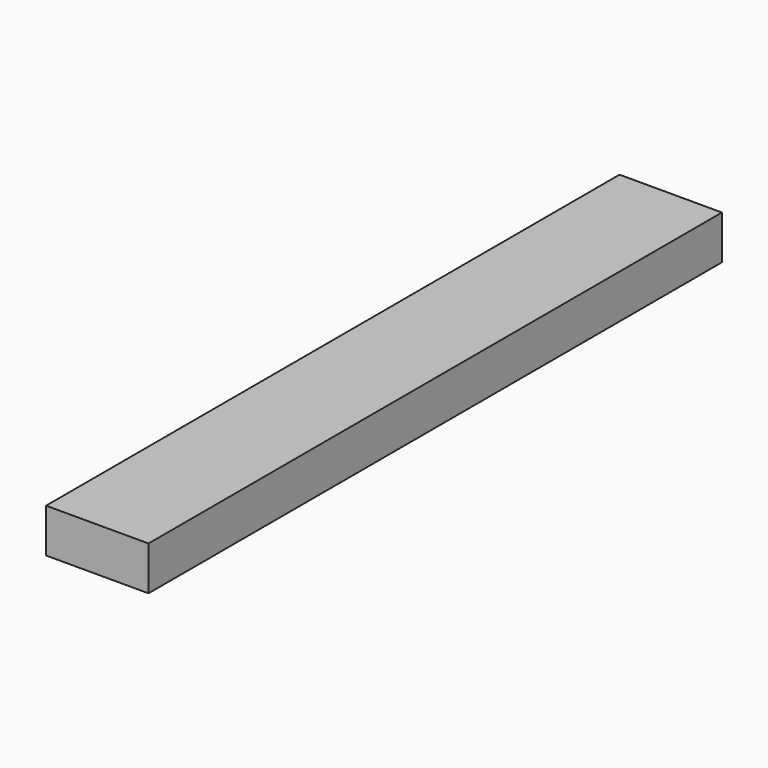
from build123d import *

# Parameters (mm, degrees)
F0_W     = 88.9
F0_H     = 38.1
F1_DEPTH = 311.15
F2_R     = 9.525
F3_DEPTH = 12.7


with BuildPart() as f1:
    # F0 (on Front) → F1 (new body, symmetric)
    with BuildSketch(Plane.XZ):
        Rectangle(F0_W, F0_H)
    extrude(amount=F1_DEPTH, both=True)

    # F2 (on face) → F3 (cut)
    with BuildSketch(Plane(origin=(0, 0, -19.05), x_dir=(1, 0, 0), z_dir=(0, 0, -1))):
        with Locations((0, 266.7)):
            Circle(F2_R)
        with Locations((0, -266.7)):
            Circle(F2_R)
    extrude(amount=-F3_DEPTH, mode=Mode.SUBTRACT)


solid = f1.part
